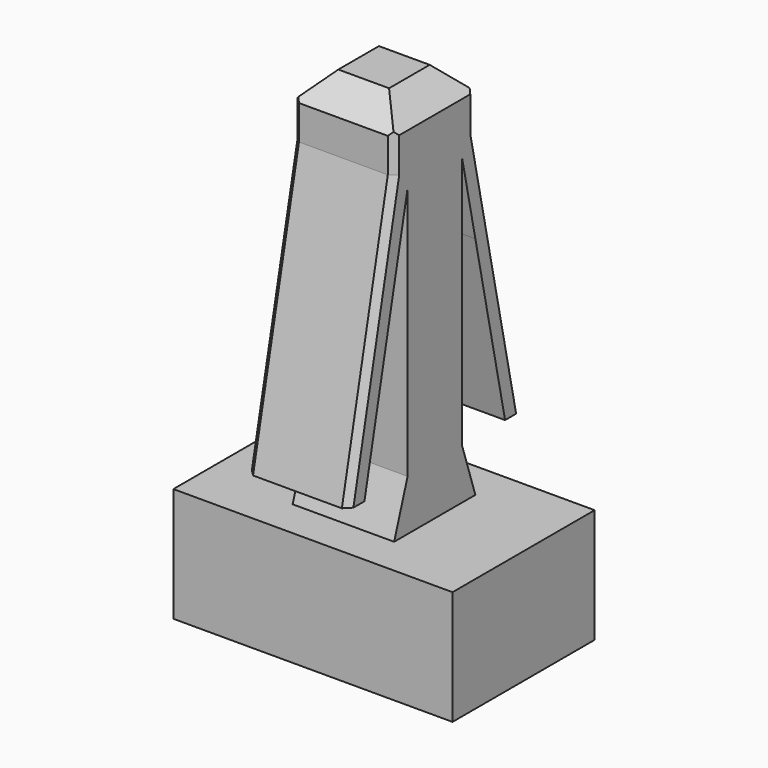
from build123d import *

# Parameters (mm, degrees)
F0_W     = 11
F0_H     = 7
F1_DEPTH = 4.5
F2_W     = 4
F2_H     = 4
F3_DEPTH = 15
F5_DEPTH = 4
F7_DEPTH = 25
F8_SIZE  = 1
F9_SIZE  = 0.25


with BuildPart() as f1:
    # F0 (on Top) → F1 (new body)
    with BuildSketch(Plane.XY):
        Rectangle(F0_W, F0_H)
    extrude(amount=-F1_DEPTH)

    # F2 (on face) → F3 (join)
    with BuildSketch(Plane.XY):
        Rectangle(F2_W, F2_H)
    extrude(amount=F3_DEPTH)

    # F4 (on face) → F5 (join)
    with BuildSketch(Plane.YZ.offset(2)):
        Polygon((-1.137265, 12.942829), (-1.5, 15), (-4.263235, 2), (-3.463235, 2), align=None)
        Polygon((3.463235, 2), (4.263235, 2), (1.5, 15), (1.137265, 12.942829), align=None)
    extrude(amount=-F5_DEPTH)

    # F6 (on face) → F7 (cut)
    with BuildSketch(Plane.YZ.offset(2)):
        Polygon((-1.33767, 12), (-2, 8.883981), (-2, 2), (-1.33767, 2), align=None)
        Polygon((-1.33767, 2), (-2, 2), (-2, 0), align=None)
        Polygon((2, 2), (2, 8.883981), (1.33767, 12), (1.33767, 2), align=None)
        Polygon((2, 0), (2, 2), (1.33767, 2), align=None)
    extrude(amount=-F7_DEPTH, mode=Mode.SUBTRACT)

    # F8
    f8_edges = [f1.edges().sort_by_distance(p)[0] for p in [
        (-2, 0, 15),
        (0, 2, 15),
        (2, 0, 15),
        (0, -2, 15),
    ]]
    chamfer(f8_edges, length=F8_SIZE)

    # F9
    f9_edges = [f1.edges().sort_by_distance(p)[0] for p in [
        (2, -2, 13.323842),
        (2, -3.131618, 7.323842),
        (-2, -3.131618, 7.323842),
        (-2, -2, 13.323842),
        (-2, 3.131618, 7.323842),
        (-2, 2, 13.323842),
        (2, 2, 13.323842),
        (2, 3.131618, 7.323842),
    ]]
    chamfer(f9_edges, length=F9_SIZE)


solid = f1.part
